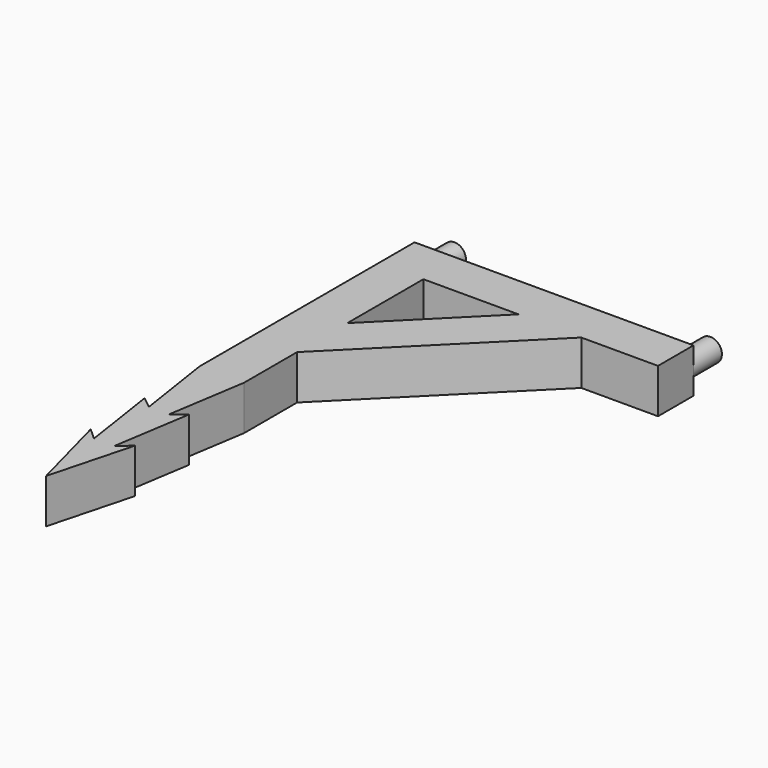
from build123d import *

# Parameters (mm, degrees)
F2_DEPTH = 5
F4_DEPTH = 4
F6_DEPTH = 5


with BuildPart() as f2:
    # F1 (on Top) → F2 (new body)
    with BuildSketch(Plane.XY):
        Polygon((-20.4275340124, 94.3563715087), (-20.4275340124, 89.3563715087), (-15.4275340124, 89.3563715087), (-4.7150340124, 89.3563715087), (2.3560337995, 89.3563715087), (10.9974659876, 89.3563715087), (10.9974659876, 94.3563715087), align=None)
        Polygon((-15.4275340124, 89.3563715087), (-20.4275340124, 89.3563715087), (-20.4275340124, 39.3563715087), (-15.4275340124, 39.3563715087), (-15.4275340124, 71.5728036968), (-15.4275340124, 78.6438715087), align=None)
        Polygon((-4.7150340124, 89.3563715087), (-15.4275340124, 78.6438715087), (-15.4275340124, 71.5728036968), (2.3560337995, 89.3563715087), align=None)
    extrude(amount=F2_DEPTH)

    # F3 (on face) → F4 (join)
    with BuildSketch(Plane(origin=(0, 94.3563715087, 0), x_dir=(-1, 0, 0), z_dir=(0, 1, 0))):
        with BuildLine():
            ThreePointArc((-8.3974659876, 2.5), (-9.6974659876, 3.8), (-10.9974659876, 2.5))
            Line((-10.9974659876, 2.5), (-8.3974659876, 2.5))
        make_face()
        with BuildLine():
            Line((-8.3974659876, 2.5), (-10.9974659876, 2.5))
            ThreePointArc((-10.9974659876, 2.5), (-9.6974659876, 1.2), (-8.3974659876, 2.5))
        make_face()
        with BuildLine():
            Line((20.4275340124, 2.5), (17.8275340124, 2.5))
            ThreePointArc((17.8275340124, 2.5), (19.1275340124, 1.2), (20.4275340124, 2.5))
        make_face()
        with BuildLine():
            ThreePointArc((20.4275340124, 2.5), (19.1275340124, 3.8), (17.8275340124, 2.5))
            Line((17.8275340124, 2.5), (20.4275340124, 2.5))
        make_face()
    extrude(amount=F4_DEPTH)

    # F5 (on face) → F6 (cut, through all)
    with BuildSketch(Plane(origin=(0, 0, 0), x_dir=(1, 0, 0), z_dir=(0, 0, -1))):
        Polygon((-15.4275340124, -39.3563715087), (-17.9275340124, -39.3563715087), (-15.4275340124, -48.7645578384), align=None)
        Polygon((-20.4275340124, -48.7645578384), (-17.9275340124, -39.3563715087), (-20.4275340124, -39.3563715087), align=None)
        Polygon((-19.0904904157, -47.5493085384), (-20.4275340124, -48.7645578384), (-20.4275340124, -56.3598138094), align=None)
        Polygon((-15.4275340124, -56.3598138094), (-15.4275340124, -48.7645578384), (-16.8119128793, -47.5493085384), align=None)
        Polygon((-15.4275340124, -64.1069722176), (-15.4275340124, -56.3598138094), (-16.8119128793, -55.2964669466), align=None)
        Polygon((-19.0904904157, -55.2964669466), (-20.4275340124, -56.3598138094), (-20.4275340124, -64.1069722176), align=None)
    extrude(amount=-F6_DEPTH, mode=Mode.SUBTRACT)


solid = f2.part
